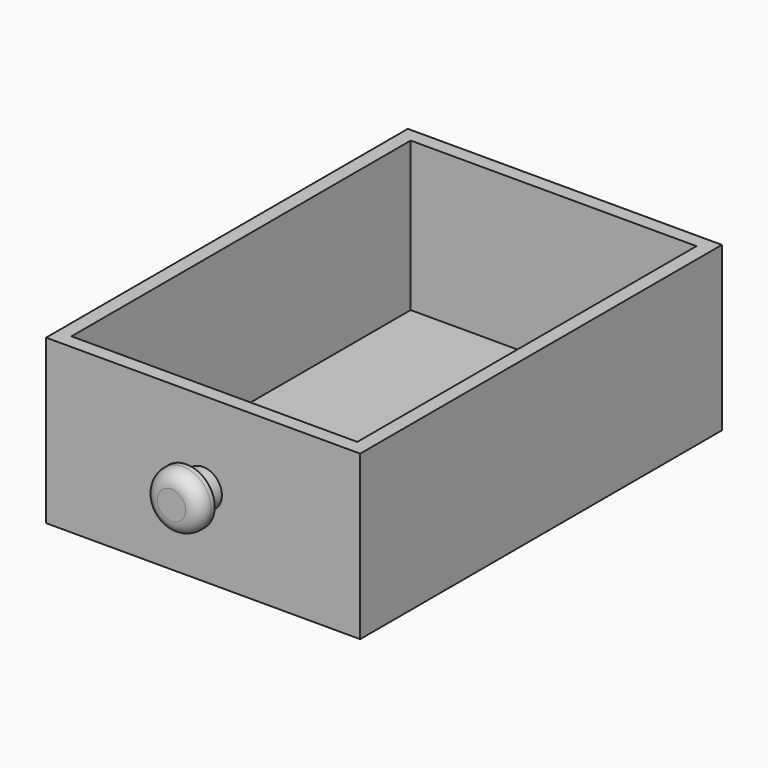
from build123d import *

# Parameters (mm, degrees)
F0_W     = 385.318
F0_H     = 201.168
F1_DEPTH = 19.05
F0_W_2   = 19.05
F0_H_2   = 19.05
F2_DEPTH = 590.55
F3_W     = 423.418
F3_H     = 220.218
F4_DEPTH = 19.05
F5_R     = 25.4
F6_DEPTH = 25.4
F8_R     = 38.1
F9_DEPTH = 25.4
F10_R    = 19.05


with BuildPart() as f1:
    # F0 (on Front) → F1 (new body)
    with BuildSketch(Plane.XZ):
        with Locations((2.090853, 45.724981)):
            Rectangle(F0_W, F0_H)
    extrude(amount=F1_DEPTH)

    # F0 (on Front) → F2 (join)
    with BuildSketch(Plane.XZ):
        with Locations((204.274853, 45.724981)):
            Rectangle(F0_W_2, F0_H)
        with Locations((-200.093147, 45.724981)):
            Rectangle(F0_W_2, F0_H)
        with Locations((2.090853, -64.384019)):
            Rectangle(F0_W, F0_H_2)
        with Locations((-200.093147, -64.384019)):
            Rectangle(F0_W_2, F0_H_2)
        with Locations((204.274853, -64.384019)):
            Rectangle(F0_W_2, F0_H_2)
    extrude(amount=F2_DEPTH)

    # F3 (on face) → F4 (join)
    with BuildSketch(Plane.XZ.offset(590.55)):
        with Locations((2.090853, 36.199981)):
            Rectangle(F3_W, F3_H)
    extrude(amount=F4_DEPTH)

    # F5 (on face) → F6 (join)
    with BuildSketch(Plane.XZ.offset(609.6)):
        with Locations((1.963853, 36.326981)):
            Circle(F5_R)
    extrude(amount=F6_DEPTH)

    # F8 (on face) → F9 (join)
    with BuildSketch(Plane.XZ.offset(635)):
        with Locations((0, 36.326981)):
            Circle(F8_R)
    extrude(amount=F9_DEPTH)

    # F10
    f10_edges = [f1.edges().sort_by_distance(p)[0] for p in [
        (-38.1, -660.4, 36.326981),
    ]]
    fillet(f10_edges, radius=F10_R)


solid = f1.part
